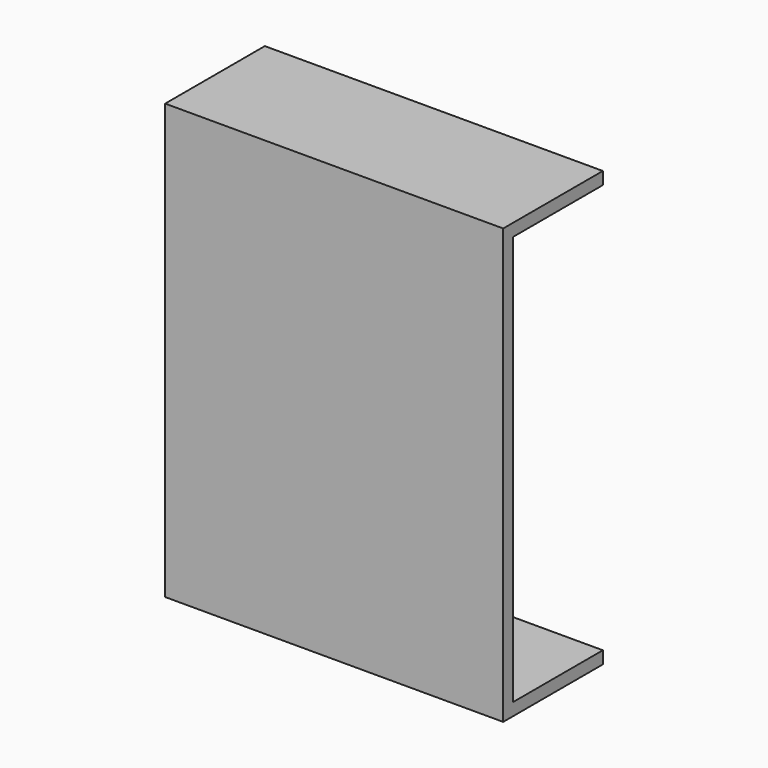
from build123d import *

# Parameters (mm, degrees)
F0_W     = 68.936493
F0_H     = 88.588074
F1_DEPTH = 25.4
F2_T     = -2.54


with BuildPart() as f1:
    # F0 (on Front) → F1 (new body)
    with BuildSketch(Plane.XZ):
        with Locations((-1.403683, 13.880879)):
            Rectangle(F0_W, F0_H)
    extrude(amount=F1_DEPTH)

    # F2
    f2_openings = [f1.faces().sort_by_distance(p)[0] for p in [
        (33.064563, -12.7, 13.880879),
        (-1.403684, 0, 13.880879),
    ]]
    offset(amount=F2_T, openings=f2_openings)


solid = f1.part
